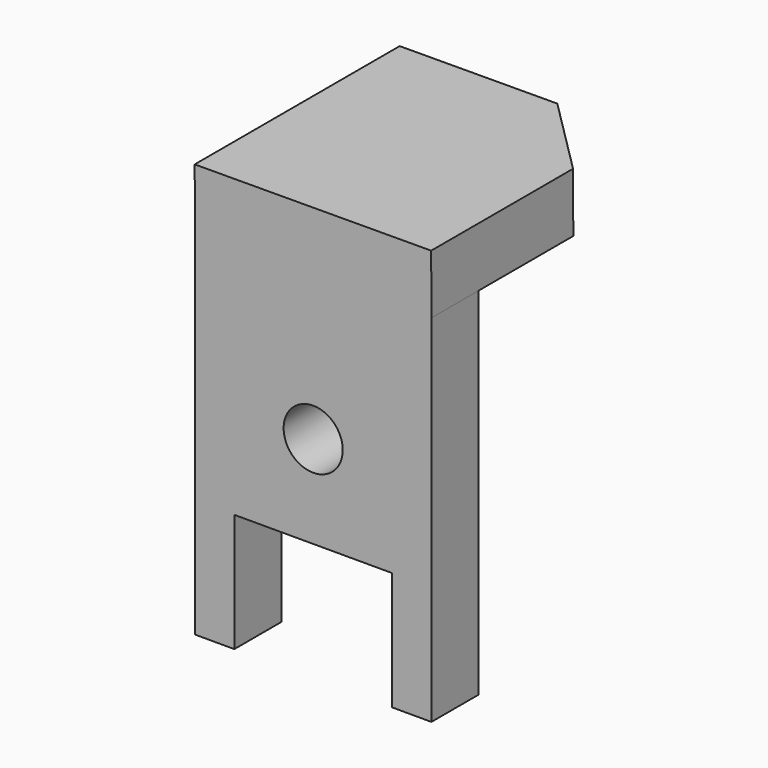
from build123d import *

# Parameters (mm, degrees)
F0_R     = 9.525
F1_DEPTH = 19.05
F2_W     = 76.2
F2_H     = 19.05
F3_DEPTH = 19.05


with BuildPart() as f1:
    # F0 (on Front) → F1 (new body)
    with BuildSketch(Plane.XZ):
        Polygon((57.3499072429, 76.507256764), (-18.8494732879, 76.2), (-18.8494732879, -38.1), (-6.1494732879, -38.1), (-6.1494732879, 0), (44.6499072429, 0), (44.6499072429, -38.1), (57.3499072429, -38.1), (57.3499072429, 0), align=None)
        with Locations((19.2505267121, 29.718)):
            Circle(F0_R, mode=Mode.SUBTRACT)
    extrude(amount=F1_DEPTH)

    # F2 (on face) → F3 (join)
    with BuildSketch(Plane(origin=(-0.3075607392, 0, 76.2747660678), x_dir=(0.9999918705, 0, 0.004032241), z_dir=(-0.004032241, 0, 0.9999918705))):
        Polygon((-18.5420632868, 0), (57.6579367132, 0), (57.6579367132, 38.1), (32.2579367132, 63.5), (-18.5420632868, 63.5), align=None)
        with Locations((19.5579367132, -9.525)):
            Rectangle(F2_W, F2_H)
    extrude(amount=F3_DEPTH)


solid = f1.part
